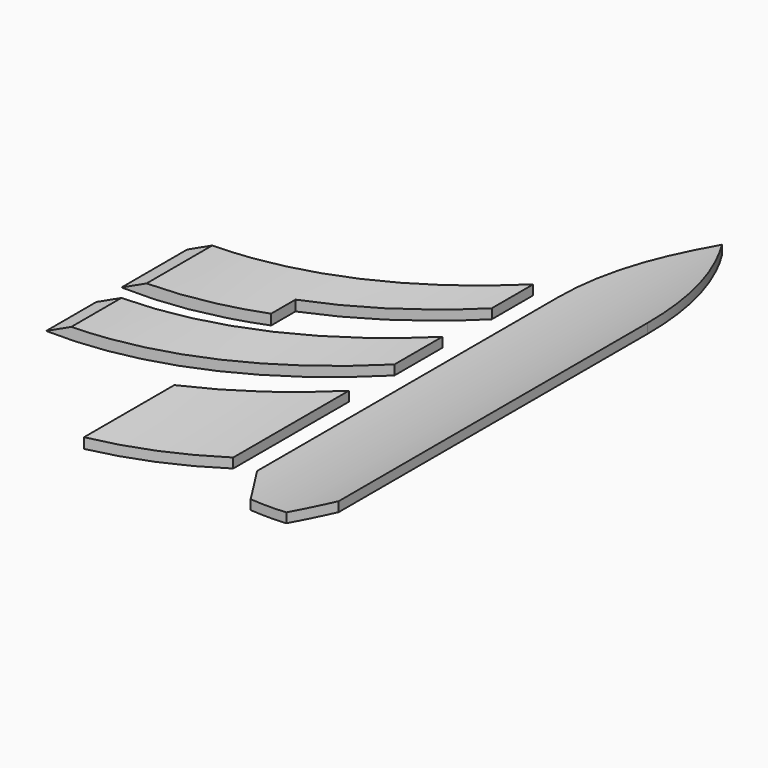
from build123d import *

# Parameters (mm, degrees)
PAD_DEPTH       = 10
SKETCH005_R     = 39.820196
SKETCH005_R_2   = 30
POCKET_DEPTH    = 59.751
SKETCH006_R     = 29.5
POCKET001_DEPTH = 59.7510001
PAD001_DEPTH    = 10
SKETCH013_R     = 50.974494
SKETCH013_R_2   = 30
POCKET008_DEPTH = 24.4546040917
SKETCH014_R     = 29.5
POCKET009_DEPTH = 24.4546040917
PAD002_DEPTH    = 10
SKETCH009_R     = 40.247183
SKETCH009_R_2   = 30
POCKET004_DEPTH = 32.7594311894
SKETCH010_R     = 29.5
POCKET005_DEPTH = 31.7315339679
PAD003_DEPTH    = 10
SKETCH011_R     = 42.648323
SKETCH011_R_2   = 30
POCKET006_DEPTH = 34.7635181932
SKETCH012_R     = 29.5
POCKET007_DEPTH = 33.7481977609


with BuildPart() as main_body:
    # Sketch → Pad (new body)
    with BuildSketch(Plane.XY):
        with BuildLine():
            Line((-4.25, 19.2207216746), (-4.25, -19.9283009434))
            Line((-4.25, -19.9283009434), (-1.8614380896, -23.75))
            Line((-1.8614380896, -23.75), (1.8614380896, -23.75))
            Line((1.8614380896, -23.75), (4.25, -19.9283009434))
            Line((4.25, -19.9283009434), (4.25, 20.2751417602))
            ThreePointArc((4.25, 20.2751417602), (3.1669148644, 28.0564066396), (0, 35.2461080782))
            ThreePointArc((0, 35.2461080782), (-3.1694471872, 27.5104066714), (-4.25, 19.2207216746))
        make_face()
    extrude(amount=PAD_DEPTH)

    # Sketch005 (on DatumPlane) → Pocket (cut, through all)
    with BuildSketch(Plane(origin=(0, 36, 0), x_dir=(-1, 0, 0), z_dir=(0, 1, 0))):
        with Locations((0, 30)):
            Circle(SKETCH005_R)
        with Locations((0, 30)):
            Circle(SKETCH005_R_2, mode=Mode.SUBTRACT)
    extrude(amount=-POCKET_DEPTH, mode=Mode.SUBTRACT)

    # Sketch006 (on DatumPlane) → Pocket001 (cut, through all)
    with BuildSketch(Plane(origin=(0, 36, 0), x_dir=(-1, 0, 0), z_dir=(0, 1, 0))):
        with Locations((0, 30.5)):
            Circle(SKETCH006_R)
    extrude(amount=-POCKET001_DEPTH, mode=Mode.SUBTRACT)


with BuildPart() as body004:
    # Sketch001 → Pad001 (new body)
    with BuildSketch(Plane.XY):
        Polygon((6.75, -19.9081057427), (6.75, -4.8662663569), (14.75, -17.5721487098), (14.75, -29.3198704486), align=None)
    extrude(amount=PAD001_DEPTH)

    # Sketch013 (on DatumPlane) → Pocket008 (cut, through all)
    with BuildSketch(Plane(origin=(6.75, -4.8662663569, 0), x_dir=(1, 0, 0), z_dir=(0, -1, 0))):
        with Locations((-6.5, 30)):
            Circle(SKETCH013_R)
        with Locations((-6.5, 30)):
            Circle(SKETCH013_R_2, mode=Mode.SUBTRACT)
    extrude(amount=POCKET008_DEPTH, mode=Mode.SUBTRACT)

    # Sketch014 (on DatumPlane) → Pocket009 (cut, through all)
    with BuildSketch(Plane(origin=(6.75, -4.8662663569, 0), x_dir=(1, 0, 0), z_dir=(0, -1, 0))):
        with Locations((-6.5, 30.5)):
            Circle(SKETCH014_R)
    extrude(amount=POCKET009_DEPTH, mode=Mode.SUBTRACT)


with BuildPart() as lower_left_wing:
    # Part__Mirroring: instance of Body004
    add(body004.part.mirror(Plane(origin=(0, 0, 0), x_dir=(0, -1, 0), z_dir=(1, 0, 0))))


with BuildPart() as body005:
    # Sketch002 → Pad002 (new body)
    with BuildSketch(Plane.XY):
        Polygon((6.75, 7.3011824717), (23.25, -18.9046998813), (23.25, -25.4572487177), (6.75, 1.0714038899), align=None)
    extrude(amount=PAD002_DEPTH)

    # Sketch009 (on DatumPlane) → Pocket004 (cut, through all)
    with BuildSketch(Plane(origin=(6.75, 7.3011824717, 0), x_dir=(1, 0, 0), z_dir=(0, -1, 0))):
        with Locations((-6.5, 30)):
            Circle(SKETCH009_R)
        with Locations((-6.5, 30)):
            Circle(SKETCH009_R_2, mode=Mode.SUBTRACT)
    extrude(amount=POCKET004_DEPTH, mode=Mode.SUBTRACT)

    # Sketch010 (on DatumPlane) → Pocket005 (cut, through all)
    with BuildSketch(Plane(origin=(6.75, 7.3011824717, 0), x_dir=(1, 0, 0), z_dir=(0, -1, 0))):
        with Locations((-6.5, 30.5)):
            Circle(SKETCH010_R)
    extrude(amount=POCKET005_DEPTH, mode=Mode.SUBTRACT)


with BuildPart() as mid_left_wing:
    # Part__Mirroring001: instance of Body005
    add(body005.part.mirror(Plane(origin=(0, 0, 0), x_dir=(0, -1, 0), z_dir=(1, 0, 0))))


with BuildPart() as body006:
    # Sketch003 → Pad003 (new body)
    with BuildSketch(Plane.XY):
        Polygon((6.75, 19.1287336431), (6.75, 13.7371663015), (15.75, -0.5528336985), (15.75, -3.7228470501), (23.25, -15.6337845501), (23.25, -7.0771487098), align=None)
    extrude(amount=PAD003_DEPTH)

    # Sketch011 (on Plane of DatumPlane003) → Pocket006 (cut, through all)
    with BuildSketch(Plane(origin=(6.75, 19.1287336431, 0), x_dir=(-1, 0, 0), z_dir=(0, 1, 0))):
        with Locations((6.5, 30)):
            Circle(SKETCH011_R)
        with Locations((6.5, 30)):
            Circle(SKETCH011_R_2, mode=Mode.SUBTRACT)
    extrude(amount=-POCKET006_DEPTH, mode=Mode.SUBTRACT)

    # Sketch012 (on DatumPlane) → Pocket007 (cut, through all)
    with BuildSketch(Plane(origin=(6.75, 19.1287336431, 0), x_dir=(-1, 0, 0), z_dir=(0, 1, 0))):
        with Locations((6.5, 30.5)):
            Circle(SKETCH012_R)
    extrude(amount=-POCKET007_DEPTH, mode=Mode.SUBTRACT)


with BuildPart() as upper_left_wing:
    # Part__Mirroring002: instance of Body006
    add(body006.part.mirror(Plane(origin=(0, 0, 0), x_dir=(0, -1, 0), z_dir=(1, 0, 0))))


solid = Compound([main_body.part, lower_left_wing.part, mid_left_wing.part, upper_left_wing.part])
